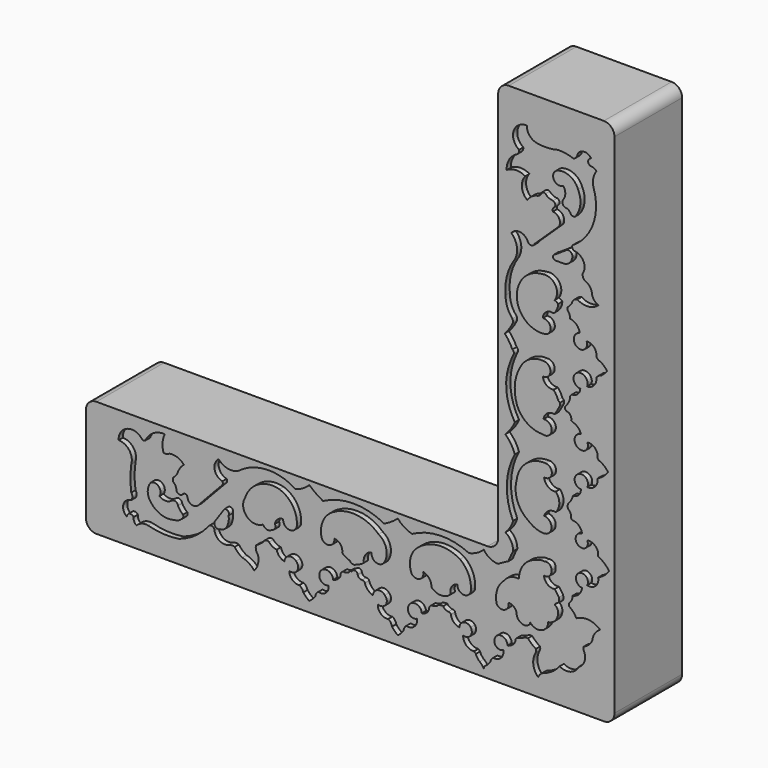
from build123d import *

# Parameters (mm, degrees)
F1_DEPTH = 160
F3_DEPTH = 10
F4_R     = 20


with BuildPart() as f1:
    # F0 (on Front) → F1 (new body)
    with BuildSketch(Plane.XZ):
        Polygon((513.536423, 525.110036), (293.536423, 525.110036), (293.536423, -254.889964), (-486.463577, -254.889964), (-486.463577, -474.889964), (513.536423, -474.889964), align=None)
    extrude(amount=F1_DEPTH)

    # F2 (on face) → F3 (cut)
    with BuildSketch(Plane.XZ.offset(160)):
        with BuildLine():
            ThreePointArc((368.622273, 446.672857), (353.588061, 454.197203), (347.579211, 469.898701))
            ThreePointArc((347.579211, 469.898701), (322.833175, 452.987506), (333.087355, 424.823582))
            ThreePointArc((333.087355, 424.823582), (332.211385, 419.470655), (328.322917, 415.688992))
            ThreePointArc((328.322917, 415.688992), (314.232318, 402.220316), (309.46359, 383.320332))
            ThreePointArc((309.46359, 383.320332), (326.892472, 389.019027), (344.661494, 384.491014))
            ThreePointArc((344.661494, 384.491014), (338.420848, 364.413548), (348.571837, 346.001387))
            ThreePointArc((348.571837, 346.001387), (357.180009, 354.926966), (368.622243, 359.706283))
            ThreePointArc((368.622243, 359.706283), (373.450667, 362.798628), (376.165956, 367.848724))
            ThreePointArc((376.165956, 367.848724), (379.540786, 368.855197), (382.915616, 367.848724))
            ThreePointArc((382.915616, 367.848724), (389.546362, 362.822308), (397.645175, 360.914201))
            ThreePointArc((397.645175, 360.914201), (401.385393, 356.637374), (400.171906, 351.086885))
            ThreePointArc((400.171906, 351.086885), (396.916263, 347.488787), (397.010475, 342.63733))
            ThreePointArc((397.010475, 342.63733), (408.751901, 335.210478), (408.313602, 321.324259))
            Line((408.313602, 321.324259), (362.739384, 277.976096))
            ThreePointArc((362.739384, 277.976096), (356.914214, 273.143716), (349.991053, 276.202202))
            ThreePointArc((349.991053, 276.202202), (335.849118, 288.382607), (318.491399, 281.522125))
            ThreePointArc((318.491399, 281.522125), (329.217212, 259.38991), (322.421879, 235.753044))
            ThreePointArc((322.421879, 235.753044), (309.82702, 206.39738), (307.542235, 174.535722))
            ThreePointArc((307.542235, 174.535722), (310.681269, 155.798776), (320.391864, 139.469936))
            ThreePointArc((320.391864, 139.469936), (321.496785, 135.079317), (320.391864, 130.688697))
            ThreePointArc((320.391864, 130.688697), (313.989029, 119.827699), (305.990964, 110.081494))
            ThreePointArc((305.990964, 110.081494), (314.120555, 99.705899), (320.391864, 88.112198))
            ThreePointArc((320.391864, 88.112198), (323.105931, 84.30827), (322.162479, 79.731598))
            ThreePointArc((322.162479, 79.731598), (314.807641, 62.035867), (310.049027, 43.472782))
            ThreePointArc((310.049027, 43.472782), (310.731534, 4.656177), (325.01328, -31.44405))
            ThreePointArc((325.01328, -31.44405), (317.386111, -45.418156), (306.984425, -57.470303))
            ThreePointArc((306.984425, -57.470303), (317.82205, -70.153278), (325.01328, -85.206456))
            ThreePointArc((325.01328, -85.206456), (309.901734, -140.726104), (321.70248, -197.042465))
            ThreePointArc((321.70248, -197.042465), (316.083169, -209.889176), (307.171106, -220.714599))
            ThreePointArc((307.171106, -220.714599), (318.076099, -232.281336), (321.70248, -247.758985))
            ThreePointArc((321.70248, -247.758985), (316.932556, -257.232117), (312.981158, -267.074823))
            ThreePointArc((312.981158, -267.074823), (303.038292, -272.22519), (293.327808, -277.801335))
            ThreePointArc((293.327808, -277.801335), (277.93246, -273.726153), (266.237855, -262.915969))
            ThreePointArc((266.237855, -262.915969), (253.352709, -272.354333), (238.338053, -277.801335))
            ThreePointArc((238.338053, -277.801335), (184.159008, -266.27435), (130.710468, -280.817181))
            ThreePointArc((130.710468, -280.817181), (115.945853, -274.388267), (103.648484, -263.991177))
            ThreePointArc((103.648484, -263.991177), (91.340293, -273.371727), (77.773735, -280.817181))
            ThreePointArc((77.773735, -280.817181), (19.944698, -266.179911), (-37.88434, -280.817181))
            ThreePointArc((-37.88434, -280.817181), (-51.458493, -272.455313), (-63.849874, -262.423754))
            ThreePointArc((-63.849874, -262.423754), (-75.884689, -272.085205), (-90.252891, -277.718604))
            ThreePointArc((-90.252891, -277.718604), (-144.216436, -263.011124), (-196.857542, -281.913191))
            ThreePointArc((-196.857542, -281.913191), (-217.206393, -285.619996), (-235.171691, -275.369912))
            ThreePointArc((-235.171691, -275.369912), (-242.934719, -294.902694), (-228.025004, -309.718043))
            ThreePointArc((-228.025004, -309.718043), (-227.449486, -312.791079), (-228.025004, -315.864116))
            ThreePointArc((-228.025004, -315.864116), (-251.035432, -340.156969), (-273.87622, -364.60939))
            ThreePointArc((-273.87622, -364.60939), (-284.724473, -368.203684), (-293.667793, -361.088872))
            ThreePointArc((-293.667793, -361.088872), (-294.44034, -357.175406), (-296.514511, -353.76808))
            ThreePointArc((-296.514511, -353.76808), (-301.399009, -354.285819), (-305.054724, -357.566386))
            ThreePointArc((-305.054724, -357.566386), (-312.410012, -357.264289), (-315.357178, -350.518495))
            ThreePointArc((-315.357178, -350.518495), (-317.461692, -345.278252), (-321.295112, -341.131687))
            ThreePointArc((-321.295112, -341.131687), (-321.363932, -337.455392), (-321.295112, -333.779097))
            ThreePointArc((-321.295112, -333.779097), (-316.192939, -328.776106), (-312.668204, -322.560132))
            ThreePointArc((-312.668204, -322.560132), (-308.049356, -313.440619), (-301.069796, -305.971682))
            ThreePointArc((-301.069796, -305.971682), (-313.734837, -297.459696), (-328.963459, -296.486944))
            ThreePointArc((-328.963459, -296.486944), (-334.0808, -298.907197), (-339.699149, -298.215121))
            ThreePointArc((-339.699149, -298.215121), (-341.45027, -282.267185), (-337.302774, -266.768754))
            ThreePointArc((-337.302774, -266.768754), (-357.485048, -271.435798), (-372.178584, -286.037356))
            ThreePointArc((-372.178584, -286.037356), (-375.144616, -290.058531), (-380.077749, -289.263934))
            ThreePointArc((-380.077749, -289.263934), (-408.211139, -280.85233), (-424.571007, -305.236697))
            ThreePointArc((-424.571007, -305.236697), (-404.440878, -315.303102), (-400.590509, -337.478071))
            ThreePointArc((-400.590509, -337.478071), (-402.193337, -361.149073), (-400.590509, -384.820074))
            ThreePointArc((-400.590509, -384.820074), (-398.548989, -391.090721), (-400.590509, -397.361368))
            ThreePointArc((-400.590509, -397.361368), (-415.647736, -409.451301), (-408.683866, -427.462161))
            ThreePointArc((-408.683866, -427.462161), (-403.781265, -420.862335), (-396.276593, -424.219877))
            ThreePointArc((-396.276593, -424.219877), (-395.037475, -431.100338), (-390.583128, -436.488748))
            ThreePointArc((-390.583128, -436.488748), (-380.79711, -429.934353), (-369.05393, -429.026634))
            ThreePointArc((-369.05393, -429.026634), (-339.887874, -433.831715), (-310.356975, -432.538033))
            ThreePointArc((-310.356975, -432.538033), (-279.381246, -416.9123), (-254.229516, -393.015653))
            ThreePointArc((-254.229516, -393.015653), (-247.832975, -390.702519), (-243.211716, -395.693541))
            ThreePointArc((-243.211716, -395.693541), (-233.990921, -410.589256), (-216.53221, -412.037991))
            ThreePointArc((-216.53221, -412.037991), (-210.788034, -410.648378), (-204.94616, -411.542296))
            ThreePointArc((-204.94616, -411.542296), (-198.550062, -418.979654), (-190.531895, -424.630612))
            ThreePointArc((-190.531895, -424.630612), (-177.940762, -429.936894), (-167.916104, -439.221263))
            ThreePointArc((-167.916104, -439.221263), (-160.901115, -425.784763), (-160.769433, -410.627842))
            ThreePointArc((-160.769433, -410.627842), (-164.560399, -403.7391), (-164.697468, -395.877331))
            ThreePointArc((-164.697468, -395.877331), (-157.836833, -391.388248), (-151.297435, -386.4429))
            ThreePointArc((-151.297435, -386.4429), (-146.59991, -381.608652), (-139.882609, -382.169515))
            ThreePointArc((-139.882609, -382.169515), (-133.523266, -387.716022), (-125.473753, -390.247881))
            ThreePointArc((-125.473753, -390.247881), (-120.371777, -399.797118), (-110.982008, -405.186951))
            ThreePointArc((-110.982008, -405.186951), (-102.467259, -393.888651), (-88.790476, -397.507787))
            ThreePointArc((-88.790476, -397.507787), (-86.82042, -412.934028), (-101.603627, -417.761743))
            ThreePointArc((-101.603627, -417.761743), (-96.144305, -430.947441), (-82.645074, -435.577512))
            ThreePointArc((-82.645074, -435.577512), (-77.795668, -439.49272), (-75.225495, -445.17073))
            ThreePointArc((-75.225495, -445.17073), (-69.886457, -450.808401), (-64.036429, -455.913872))
            ThreePointArc((-64.036429, -455.913872), (-58.11843, -450.788745), (-52.666131, -445.17073))
            ThreePointArc((-52.666131, -445.17073), (-50.774485, -439.383881), (-46.559859, -434.990376))
            ThreePointArc((-46.559859, -434.990376), (-32.22241, -431.932407), (-27.736453, -417.975694))
            ThreePointArc((-27.736453, -417.975694), (-39.66757, -416.88783), (-44.930637, -406.125158))
            ThreePointArc((-44.930637, -406.125158), (-31.868065, -393.273498), (-18.805493, -406.125158))
            ThreePointArc((-18.805493, -406.125158), (-10.782923, -402.332007), (-4.866517, -395.717949))
            ThreePointArc((-4.866517, -395.717949), (-4.031915, -390.078503), (0, -386.048173))
            ThreePointArc((0, -386.048173), (5.640933, -385.821325), (10.847495, -383.638829))
            ThreePointArc((10.847495, -383.638829), (13.093034, -380.84801), (16.671119, -380.679429))
            ThreePointArc((16.671119, -380.679429), (23.078599, -376.923282), (27.766883, -382.683873))
            ThreePointArc((27.766883, -382.683873), (30.854083, -386.877428), (35.79361, -388.525993))
            ThreePointArc((35.79361, -388.525993), (39.236263, -388.89381), (41.438572, -391.565323))
            ThreePointArc((41.438572, -391.565323), (46.951478, -401.365726), (56.589983, -407.157034))
            ThreePointArc((56.589983, -407.157034), (65.274281, -395.649642), (79.126053, -399.645329))
            ThreePointArc((79.126053, -399.645329), (80.768365, -415.024686), (65.808646, -418.952614))
            ThreePointArc((65.808646, -418.952614), (71.236754, -432.898495), (85.561275, -437.229782))
            ThreePointArc((85.561275, -437.229782), (90.243933, -441.628665), (92.659689, -447.581947))
            ThreePointArc((92.659689, -447.581947), (97.781762, -453.384345), (103.648484, -458.432615))
            ThreePointArc((103.648484, -458.432615), (109.734396, -453.055194), (114.637405, -446.580976))
            ThreePointArc((114.637405, -446.580976), (116.418513, -441.397062), (119.979285, -437.229782))
            ThreePointArc((119.979285, -437.229782), (134.981834, -433.642207), (139.689598, -418.952614))
            ThreePointArc((139.689598, -418.952614), (128.446717, -418.982221), (123.032726, -409.128696))
            ThreePointArc((123.032726, -409.128696), (134.992469, -394.644245), (149.001926, -407.157034))
            ThreePointArc((149.001926, -407.157034), (157.468659, -403.811004), (162.592232, -396.285683))
            ThreePointArc((162.592232, -396.285683), (163.666389, -391.495052), (167.136773, -388.022244))
            ThreePointArc((167.136773, -388.022244), (173.084628, -387.143459), (178.704694, -385.007083))
            ThreePointArc((178.704694, -385.007083), (181.074466, -382.525794), (184.47873, -382.097304))
            ThreePointArc((184.47873, -382.097304), (186.982736, -381.800792), (189.486742, -382.097304))
            ThreePointArc((189.486742, -382.097304), (193.642315, -386.17999), (199.168906, -388.022244))
            ThreePointArc((199.168906, -388.022244), (202.198737, -388.55315), (203.966394, -391.070515))
            ThreePointArc((203.966394, -391.070515), (209.346627, -402.008833), (220.280275, -407.398552))
            ThreePointArc((220.280275, -407.398552), (228.242159, -396.164387), (241.409436, -400.191903))
            ThreePointArc((241.409436, -400.191903), (241.140886, -414.61347), (227.21146, -418.358445))
            ThreePointArc((227.21146, -418.358445), (233.110019, -432.972109), (247.974142, -438.207567))
            ThreePointArc((247.974142, -438.207567), (249.623817, -439.769905), (251.287997, -441.316783))
            ThreePointArc((251.287997, -441.316783), (254.049198, -447.106006), (258.447111, -451.774806))
            ThreePointArc((258.447111, -451.774806), (262.732605, -455.928356), (266.237855, -460.758537))
            ThreePointArc((266.237855, -460.758537), (267.427892, -457.442621), (269.747198, -454.790771))
            ThreePointArc((269.747198, -454.790771), (274.715866, -450.904652), (278.520584, -445.87338))
            ThreePointArc((278.520584, -445.87338), (280.522135, -440.940765), (284.346104, -437.237501))
            ThreePointArc((284.346104, -437.237501), (298.92543, -432.664944), (303.131491, -417.975694))
            ThreePointArc((303.131491, -417.975694), (290.958976, -417.532592), (286.688507, -406.125158))
            ThreePointArc((286.688507, -406.125158), (299.842931, -395.37954), (310.97737, -408.206522))
            ThreePointArc((310.97737, -408.206522), (320.105131, -404.129771), (326.168358, -396.181613))
            ThreePointArc((326.168358, -396.181613), (327.042717, -391.660127), (330.747694, -388.924897))
            ThreePointArc((330.747694, -388.924897), (337.802273, -387.0535), (344.204277, -383.548707))
            ThreePointArc((344.204277, -383.548707), (346.948713, -383.310576), (349.693149, -383.548707))
            ThreePointArc((349.693149, -383.548707), (356.816361, -390.356833), (364.809692, -396.118551))
            ThreePointArc((364.809692, -396.118551), (365.168068, -399.158657), (364.809692, -402.198762))
            ThreePointArc((364.809692, -402.198762), (359.956826, -422.854556), (369.089395, -442.006797))
            ThreePointArc((369.089395, -442.006797), (373.785412, -435.063194), (381.108642, -430.984408))
            ThreePointArc((381.108642, -430.984408), (397.004422, -422.8645), (409.821242, -410.44122))
            ThreePointArc((409.821242, -410.44122), (430.070707, -413.033617), (445.711881, -399.914354))
            ThreePointArc((445.711881, -399.914354), (456.886373, -386.641932), (455.376446, -369.357646))
            ThreePointArc((455.376446, -369.357646), (454.621719, -366.120547), (455.376446, -362.883449))
            ThreePointArc((455.376446, -362.883449), (464.993487, -356.76982), (471.665949, -347.531736))
            ThreePointArc((471.665949, -347.531736), (476.222794, -334.306996), (486.539006, -324.860603))
            ThreePointArc((486.539006, -324.860603), (464.727026, -315.231299), (441.447705, -320.38486))
            ThreePointArc((441.447705, -320.38486), (435.834673, -311.568539), (427.737355, -304.96043))
            ThreePointArc((427.737355, -304.96043), (427.937011, -302.186027), (427.737355, -299.411625))
            ThreePointArc((427.737355, -299.411625), (432.542468, -292.824978), (434.409529, -284.888536))
            ThreePointArc((434.409529, -284.888536), (446.580856, -278.539598), (452.271461, -266.046911))
            ThreePointArc((452.271461, -266.046911), (441.019751, -257.160221), (445.711881, -243.611857))
            ThreePointArc((445.711881, -243.611857), (459.783872, -244.644066), (461.870134, -258.598775))
            ThreePointArc((461.870134, -258.598775), (477.813116, -254.63356), (482.663512, -238.937214))
            ThreePointArc((482.663512, -238.937214), (494.273608, -231.629367), (503.480911, -221.459582))
            ThreePointArc((503.480911, -221.459582), (494.226571, -211.238164), (482.663512, -203.727111))
            ThreePointArc((482.663512, -203.727111), (477.434076, -188.347298), (461.870134, -183.694407))
            ThreePointArc((461.870134, -183.694407), (460.46746, -195.995394), (448.515445, -199.225113))
            ThreePointArc((448.515445, -199.225113), (440.249022, -185.871292), (452.271461, -175.765887))
            ThreePointArc((452.271461, -175.765887), (446.320518, -164.282219), (434.409529, -159.240723))
            ThreePointArc((434.409529, -159.240723), (432.350499, -158.423016), (431.655139, -156.319514))
            ThreePointArc((431.655139, -156.319514), (430.483408, -148.976965), (425.708562, -143.277243))
            ThreePointArc((425.708562, -143.277243), (424.976134, -138.90899), (425.708562, -134.540737))
            ThreePointArc((425.708562, -134.540737), (431.491136, -127.188959), (434.840411, -118.455738))
            ThreePointArc((434.840411, -118.455738), (445.754083, -113.66918), (450.051874, -102.553949))
            ThreePointArc((450.051874, -102.553949), (438.895493, -94.492418), (442.123502, -81.112094))
            ThreePointArc((442.123502, -81.112094), (458.236831, -79.37984), (462.154567, -95.105343))
            ThreePointArc((462.154567, -95.105343), (476.862172, -89.343521), (481.529474, -74.252844))
            ThreePointArc((481.529474, -74.252844), (492.521795, -67.122992), (501.381338, -57.470303))
            ThreePointArc((501.381338, -57.470303), (493.744661, -49.102436), (483.911693, -43.476358))
            ThreePointArc((483.911693, -43.476358), (482.705943, -41.949178), (481.529474, -40.399328))
            ThreePointArc((481.529474, -40.399328), (476.914821, -25.495926), (462.154567, -20.442085))
            ThreePointArc((462.154567, -20.442085), (460.427563, -33.487584), (447.631329, -36.557432))
            ThreePointArc((447.631329, -36.557432), (438.117453, -22.729894), (450.051874, -10.928019))
            ThreePointArc((450.051874, -10.928019), (444.348222, -1.136865), (434.328437, 4.154848))
            ThreePointArc((434.328437, 4.154848), (432.899577, 5.192852), (431.698054, 6.487239))
            ThreePointArc((431.698054, 6.487239), (431.146674, 12.631736), (427.429914, 17.555613))
            ThreePointArc((427.429914, 17.555613), (423.457661, 18.456306), (420.183957, 20.879716))
            ThreePointArc((420.183957, 20.879716), (420.183891, 23.336806), (420.183957, 25.793897))
            ThreePointArc((420.183957, 25.793897), (422.364133, 27.890924), (424.303234, 30.212685))
            ThreePointArc((424.303234, 30.212685), (427.293761, 36.050393), (429.762483, 42.127192))
            ThreePointArc((429.762483, 42.127192), (430.179549, 46.570001), (433.431864, 49.625315))
            ThreePointArc((433.431864, 49.625315), (444.201612, 54.008019), (448.873252, 64.655617))
            ThreePointArc((448.873252, 64.655617), (436.727662, 73.713762), (441.444695, 88.112198))
            ThreePointArc((441.444695, 88.112198), (457.562288, 88.098154), (461.643696, 72.505876))
            ThreePointArc((461.643696, 72.505876), (474.899952, 78.538213), (479.171664, 92.461929))
            ThreePointArc((479.171664, 92.461929), (483.303487, 97.111093), (489.020824, 99.560328))
            ThreePointArc((489.020824, 99.560328), (494.551184, 104.588941), (499.621063, 110.081494))
            ThreePointArc((499.621063, 110.081494), (494.121009, 116.675623), (487.267971, 121.8495))
            ThreePointArc((487.267971, 121.8495), (482.655654, 123.935447), (479.171664, 127.607837))
            ThreePointArc((479.171664, 127.607837), (474.951935, 142.12026), (460.725486, 147.221699))
            ThreePointArc((460.725486, 147.221699), (458.309764, 133.934516), (445.200622, 130.688697))
            ThreePointArc((445.200622, 130.688697), (436.731513, 144.753381), (447.955042, 156.735599))
            ThreePointArc((447.955042, 156.735599), (441.922457, 168.780649), (429.852664, 174.763575))
            ThreePointArc((429.852664, 174.763575), (428.490606, 181.510251), (424.746752, 187.285751))
            ThreePointArc((424.746752, 187.285751), (425.002123, 189.742163), (424.746752, 192.198575))
            ThreePointArc((424.746752, 192.198575), (429.034959, 196.422051), (432.888448, 201.045588))
            ThreePointArc((432.888448, 201.045588), (436.245254, 208.032798), (443.276137, 211.29714))
            ThreePointArc((443.276137, 211.29714), (463.962581, 206.298932), (483.435988, 214.883655))
            ThreePointArc((483.435988, 214.883655), (475.52583, 220.14093), (471.159816, 228.575826))
            ThreePointArc((471.159816, 228.575826), (467.90229, 238.981597), (459.707737, 246.174708))
            ThreePointArc((459.707737, 246.174708), (454.495397, 250.958163), (453.531265, 257.966757))
            ThreePointArc((453.531265, 257.966757), (455.247614, 277.88175), (439.476669, 290.16304))
            ThreePointArc((439.476669, 290.16304), (434.348152, 293.00415), (434.423178, 298.86657))
            ThreePointArc((434.423178, 298.86657), (472.967032, 345.904077), (474.289417, 406.702161))
            ThreePointArc((474.289417, 406.702161), (473.260564, 422.249707), (479.395777, 436.572552))
            ThreePointArc((479.395777, 436.572552), (475.115837, 440.377455), (469.469845, 441.335559))
            ThreePointArc((469.469845, 441.335559), (463.742512, 448.086366), (469.469845, 454.837173))
            ThreePointArc((469.469845, 454.837173), (456.965757, 461.596345), (444.257975, 455.228388))
            ThreePointArc((444.257975, 455.228388), (441.95397, 448.425062), (436.714232, 443.511933))
            ThreePointArc((436.714232, 443.511933), (421.763397, 447.435502), (406.340867, 448.468655))
            ThreePointArc((406.340867, 448.468655), (387.577196, 445.562243), (368.622273, 446.672857))
        make_face()
        with BuildLine():
            ThreePointArc((-363.127232, -355.508268), (-348.259421, -358.120193), (-347.168505, -373.176217))
            ThreePointArc((-347.168505, -373.176217), (-335.069613, -377.404786), (-323.230416, -372.495875))
            ThreePointArc((-323.230416, -372.495875), (-316.225314, -372.354471), (-312.173307, -378.070474))
            ThreePointArc((-312.173307, -378.070474), (-308.070566, -384.34292), (-302.712053, -389.583379))
            ThreePointArc((-302.712053, -389.583379), (-302.582449, -394.642102), (-306.13178, -398.249))
            ThreePointArc((-306.13178, -398.249), (-311.770198, -402.260146), (-318.556786, -403.610438))
            ThreePointArc((-318.556786, -403.610438), (-343.057317, -403.536242), (-363.127232, -389.483482))
            ThreePointArc((-363.127232, -389.483482), (-369.467294, -372.495875), (-363.127232, -355.508268))
        make_face(mode=Mode.SUBTRACT)
        with BuildLine():
            ThreePointArc((-224.423885, -354.912072), (-217.540439, -356.066683), (-216.52472, -362.971991))
            ThreePointArc((-216.52472, -362.971991), (-216.214007, -371.066147), (-218.136802, -378.934741))
            ThreePointArc((-218.136802, -378.934741), (-223.28521, -387.508735), (-232.645467, -391.030818))
            ThreePointArc((-232.645467, -391.030818), (-241.562496, -389.983005), (-242.317915, -381.03646))
            Line((-242.317915, -381.03646), (-224.423885, -354.912072))
        make_face(mode=Mode.SUBTRACT)
        with BuildLine():
            ThreePointArc((-151.399761, -356.806099), (-181.911895, -353.59937), (-185.120404, -323.087424))
            ThreePointArc((-185.120404, -323.087424), (-159.759013, -292.750625), (-120.50961, -287.954181))
            ThreePointArc((-120.50961, -287.954181), (-96.038597, -306.186515), (-87.240957, -335.407227))
            ThreePointArc((-87.240957, -335.407227), (-100.22556, -349.573161), (-113.210164, -335.407227))
            ThreePointArc((-113.210164, -335.407227), (-123.575581, -339.126714), (-128.932059, -348.748803))
            ThreePointArc((-128.932059, -348.748803), (-128.548245, -356.086011), (-134.687394, -360.122442))
            ThreePointArc((-134.687394, -360.122442), (-143.922194, -362.891966), (-151.399761, -356.806099))
        make_face(mode=Mode.SUBTRACT)
        with BuildLine():
            ThreePointArc((76.856613, -346.929908), (61.636155, -350.333741), (54.225452, -336.610407))
            ThreePointArc((54.225452, -336.610407), (42.233749, -344.386102), (39.56775, -358.427286))
            ThreePointArc((39.56775, -358.427286), (32.840801, -363.12512), (25.109222, -365.871787))
            ThreePointArc((25.109222, -365.871787), (18.563647, -367.832903), (13.177431, -363.628238))
            ThreePointArc((13.177431, -363.628238), (5.228579, -360.431849), (-1.561845, -355.207741))
            ThreePointArc((-1.561845, -355.207741), (-4.701741, -342.356301), (-16.441496, -336.257398))
            ThreePointArc((-16.441496, -336.257398), (-25.405652, -350.290846), (-40.445462, -343.142569))
            ThreePointArc((-40.445462, -343.142569), (-38.048153, -314.228489), (-18.406734, -292.874664))
            ThreePointArc((-18.406734, -292.874664), (25.881319, -283.279641), (67.22144, -301.840097))
            ThreePointArc((67.22144, -301.840097), (82.003901, -322.255624), (76.856613, -346.929908))
        make_face(mode=Mode.SUBTRACT)
        with BuildLine():
            ThreePointArc((203.966394, -357.283354), (185.551584, -365.318962), (167.136773, -357.283354))
            ThreePointArc((167.136773, -357.283354), (163.148704, -344.263399), (151.547387, -337.133646))
            ThreePointArc((151.547387, -337.133646), (145.260074, -351.196165), (130.186409, -348.022938))
            ThreePointArc((130.186409, -348.022938), (127.704161, -321.774634), (141.990423, -299.615264))
            ThreePointArc((141.990423, -299.615264), (180.596132, -283.757969), (221.206173, -293.384969))
            ThreePointArc((221.206173, -293.384969), (237.121597, -312.725736), (242.039964, -337.28537))
            ThreePointArc((242.039964, -337.28537), (229.218416, -350.533718), (216.396868, -337.28537))
            ThreePointArc((216.396868, -337.28537), (205.449244, -344.342774), (203.966394, -357.283354))
        make_face(mode=Mode.SUBTRACT)
        with BuildLine():
            ThreePointArc((394.141138, -256.484658), (390.477163, -266.397889), (380.178928, -268.773437))
            ThreePointArc((380.178928, -268.773437), (386.693496, -281.451794), (400.52712, -284.888536))
            ThreePointArc((400.52712, -284.888536), (404.64415, -290.391421), (408.368587, -296.167254))
            ThreePointArc((408.368587, -296.167254), (408.930138, -300.563842), (408.368587, -304.96043))
            ThreePointArc((408.368587, -304.96043), (403.99688, -307.264696), (400.52712, -310.783535))
            ThreePointArc((400.52712, -310.783535), (406.355927, -318.271057), (406.354517, -327.759892))
            ThreePointArc((406.354517, -327.759892), (399.850967, -338.735402), (388.176352, -343.879461))
            ThreePointArc((388.176352, -343.879461), (375.375411, -361.622432), (354.29886, -355.752498))
            ThreePointArc((354.29886, -355.752498), (347.367165, -363.137696), (337.301075, -362.013698))
            ThreePointArc((337.301075, -362.013698), (330.45687, -356.250691), (328.448087, -347.531736))
            ThreePointArc((328.448087, -347.531736), (322.614141, -339.102462), (312.866807, -335.928023))
            ThreePointArc((312.866807, -335.928023), (306.16465, -350.111391), (291.010588, -346.05661))
            ThreePointArc((291.010588, -346.05661), (291.344802, -322.176923), (304.410607, -302.186027))
            ThreePointArc((304.410607, -302.186027), (316.929485, -292.145227), (332.798809, -289.756805))
            ThreePointArc((332.798809, -289.756805), (342.315209, -262.845461), (366.547018, -247.758985))
            ThreePointArc((366.547018, -247.758985), (373.562723, -245.174065), (381.038874, -245.269418))
            ThreePointArc((381.038874, -245.269418), (390.790287, -247.138293), (394.141138, -256.484658))
        make_face(mode=Mode.SUBTRACT)
        with BuildLine():
            ThreePointArc((382.4898, -80.896728), (395.083196, -94.202449), (380.486608, -105.273828))
            ThreePointArc((380.486608, -105.273828), (387.752272, -118.572669), (402.521878, -121.964984))
            ThreePointArc((402.521878, -121.964984), (409.209803, -138.995338), (402.521878, -156.025693))
            ThreePointArc((402.521878, -156.025693), (388.961162, -158.51289), (380.486608, -169.387683))
            ThreePointArc((380.486608, -169.387683), (394.424185, -184.080362), (380.486608, -198.773041))
            ThreePointArc((380.486608, -198.773041), (364.97711, -195.868068), (351.440132, -187.760442))
            ThreePointArc((351.440132, -187.760442), (330.010164, -161.320905), (328.403264, -127.325162))
            ThreePointArc((328.403264, -127.325162), (346.225737, -93.369233), (382.4898, -80.896728))
        make_face(mode=Mode.SUBTRACT)
        with BuildLine():
            ThreePointArc((378.091216, 88.112198), (392.482938, 75.089192), (378.091216, 62.066186))
            ThreePointArc((378.091216, 62.066186), (384.916017, 49.791504), (398.546129, 46.40539))
            ThreePointArc((398.546129, 46.40539), (403.357068, 39.636941), (406.867862, 32.111559))
            ThreePointArc((406.867862, 32.111559), (408.470635, 30.237033), (410.25874, 28.538384))
            ThreePointArc((410.25874, 28.538384), (410.470935, 25.957136), (410.25874, 23.375889))
            ThreePointArc((410.25874, 23.375889), (405.457206, 14.626195), (400.270283, 6.099313))
            ThreePointArc((400.270283, 6.099313), (386.481673, 3.344242), (379.389077, -8.797063))
            ThreePointArc((379.389077, -8.797063), (394.752856, -22.838741), (377.518028, -34.50815))
            ThreePointArc((377.518028, -34.50815), (348.366373, -25.672857), (329.277933, -1.934432))
            ThreePointArc((329.277933, -1.934432), (325.205955, 32.086959), (335.851073, 64.655617))
            ThreePointArc((335.851073, 64.655617), (353.526805, 82.586405), (378.091216, 88.112198))
        make_face(mode=Mode.SUBTRACT)
        with BuildLine():
            ThreePointArc((406.867862, 192.041233), (404.558779, 181.952132), (398.305058, 173.705146))
            ThreePointArc((398.305058, 173.705146), (384.609018, 171.369101), (378.091216, 159.098938))
            ThreePointArc((378.091216, 159.098938), (392.230921, 149.794307), (385.061741, 134.461001))
            ThreePointArc((385.061741, 134.461001), (348.508943, 141.771997), (329.277933, 173.705146))
            ThreePointArc((329.277933, 173.705146), (340.65957, 213.441052), (377.518028, 232.147679))
            ThreePointArc((377.518028, 232.147679), (401.458571, 222.163461), (400.270283, 196.251646))
            ThreePointArc((400.270283, 196.251646), (403.807465, 194.519992), (406.867862, 192.041233))
        make_face(mode=Mode.SUBTRACT)
        with BuildLine():
            ThreePointArc((424.052685, 287.724406), (432.237815, 284.820002), (433.317363, 276.202202))
            ThreePointArc((433.317363, 276.202202), (427.120237, 266.228604), (415.910989, 262.731493))
            Line((415.910989, 262.731493), (402.435094, 262.731493))
            ThreePointArc((402.435094, 262.731493), (397.364889, 267.396695), (401.592851, 272.836864))
            Line((401.592851, 272.836864), (424.052685, 287.724406))
        make_face(mode=Mode.SUBTRACT)
        with BuildLine():
            ThreePointArc((416.465282, 392.081767), (398.783413, 396.45662), (405.149728, 413.522899))
            ThreePointArc((405.149728, 413.522899), (428.839058, 412.532238), (444.654971, 394.868076))
            ThreePointArc((444.654971, 394.868076), (448.834918, 370.337423), (438.699424, 347.610861))
            ThreePointArc((438.699424, 347.610861), (434.992302, 347.141803), (431.552738, 348.601997))
            ThreePointArc((431.552738, 348.601997), (428.429988, 353.383322), (423.810512, 356.740862))
            ThreePointArc((423.810512, 356.740862), (416.061528, 360.326423), (416.465282, 368.855197))
            ThreePointArc((416.465282, 368.855197), (420.543967, 380.468482), (416.465282, 392.081767))
        make_face(mode=Mode.SUBTRACT)
    extrude(amount=-F3_DEPTH, mode=Mode.SUBTRACT)

    # F4
    f4_edges = [f1.edges().sort_by_distance(p)[0] for p in [
        (513.536423, -80, -474.889964),
        (-486.463577, -80, -474.889964),
        (-486.463577, -80, -254.889964),
        (293.536423, -80, -254.889964),
        (293.536423, -80, 525.110036),
        (513.536423, -80, 525.110036),
    ]]
    fillet(f4_edges, radius=F4_R)


solid = f1.part
